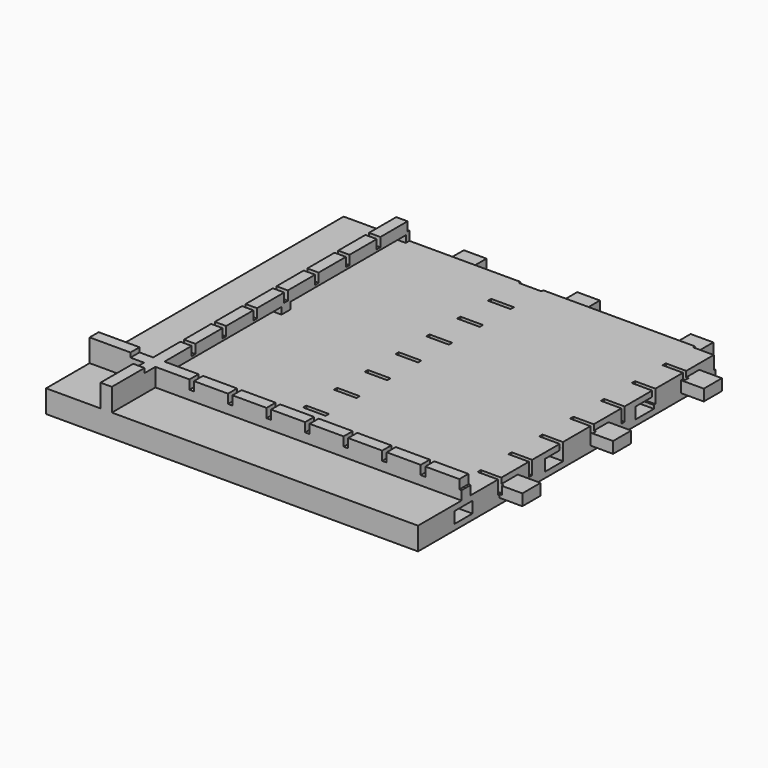
from build123d import *

# Parameters (mm, degrees)
SKETCH_W                           = 164
SKETCH_H                           = 164
PAD_DEPTH                          = 10
SKETCH001_W                        = 164
SKETCH001_H                        = 5
SKETCH001_W_2                      = 5
SKETCH001_H_2                      = 164
PAD001_DEPTH                       = 10
SKETCH005_W                        = 146
SKETCH005_H                        = 2
POCKET_DEPTH                       = 5
SKETCH006_W                        = 146
SKETCH006_H                        = 2
POCKET001_DEPTH                    = 5
SKETCH007_W                        = 2
SKETCH007_H                        = 4
POCKET002_DEPTH                    = 5
LINEARPATTERN_COUNT                = 9
LINEARPATTERN_PITCH                = 17
SKETCH008_W                        = 61.5
SKETCH008_H                        = 3
SKETCH008_W_2                      = 63.5
POCKET003_DEPTH                    = 5
SKETCH009_W                        = 2
SKETCH009_H                        = 4
POCKET004_DEPTH                    = 5
LINEARPATTERN001_COUNT             = 9
LINEARPATTERN001_PITCH             = 17
SKETCH010_W                        = 10
SKETCH010_H                        = 5
POCKET005_DEPTH                    = 10
LINEARPATTERN002_COUNT             = 3
LINEARPATTERN002_PITCH             = 50
SKETCH011_W                        = 10
SKETCH011_H                        = 5
PAD002_DEPTH                       = 10
LINEARPATTERN003_COUNT             = 3
LINEARPATTERN003_PITCH             = 50
SKETCH012_W                        = 10
SKETCH012_H                        = 5
POCKET006_DEPTH                    = 10
LINEARPATTERN004_COUNT             = 3
LINEARPATTERN004_PITCH             = 50
SKETCH013_W                        = 10
SKETCH013_H                        = 5
PAD003_DEPTH                       = 10
LINEARPATTERN005_COUNT             = 3
LINEARPATTERN005_PITCH             = 50
SKETCH014_W                        = 10
SKETCH014_H                        = 1.8
POCKET007_DEPTH                    = 6
SKETCH014_LINEARPATTERN006_2_W     = 10
SKETCH014_LINEARPATTERN006_2_H     = 1.8
POCKET007_LINEARPATTERN006_2_DEPTH = 6
SKETCH014_LINEARPATTERN006_3_W     = 10
SKETCH014_LINEARPATTERN006_3_H     = 1.8
POCKET007_LINEARPATTERN006_3_DEPTH = 6
SKETCH014_LINEARPATTERN006_4_W     = 10
SKETCH014_LINEARPATTERN006_4_H     = 1.8
POCKET007_LINEARPATTERN006_4_DEPTH = 6
SKETCH014_LINEARPATTERN006_5_W     = 10
SKETCH014_LINEARPATTERN006_5_H     = 1.8
POCKET007_LINEARPATTERN006_5_DEPTH = 6
SKETCH014_LINEARPATTERN006_6_W     = 10
SKETCH014_LINEARPATTERN006_6_H     = 1.8
POCKET007_LINEARPATTERN006_6_DEPTH = 6
SKETCH014_LINEARPATTERN006_7_W     = 10
SKETCH014_LINEARPATTERN006_7_H     = 1.8
POCKET007_LINEARPATTERN006_7_DEPTH = 6
SKETCH014_LINEARPATTERN006_8_W     = 10
SKETCH014_LINEARPATTERN006_8_H     = 1.8
POCKET007_LINEARPATTERN006_8_DEPTH = 6
SKETCH014_LINEARPATTERN006_9_W     = 10
SKETCH014_LINEARPATTERN006_9_H     = 1.8
POCKET007_LINEARPATTERN006_9_DEPTH = 6
LINEARPATTERN007_COUNT             = 2
LINEARPATTERN007_PITCH             = 77


with BuildPart() as part:
    # Sketch → Pad (new body)
    with BuildSketch(Plane.XY):
        Rectangle(SKETCH_W, SKETCH_H)
    extrude(amount=PAD_DEPTH)

    # Sketch001 (on Face6 of Pad) → Pad001 (join)
    with BuildSketch(Plane.XY.offset(10)):
        with Locations((0, -55.5)):
            Rectangle(SKETCH001_W, SKETCH001_H)
        with Locations((-55.5, 0)):
            Rectangle(SKETCH001_W_2, SKETCH001_H_2)
    extrude(amount=PAD001_DEPTH)

    # Sketch005 → Pocket (cut)
    with BuildSketch(Plane(origin=(0, -53, 0), x_dir=(-1, 0, 0), z_dir=(0, 1, 0))):
        with Locations((-9, 19)):
            Rectangle(SKETCH005_W, SKETCH005_H)
    extrude(amount=-POCKET_DEPTH, mode=Mode.SUBTRACT)

    # Sketch006 (on Face15 of Pocket) → Pocket001 (cut)
    with BuildSketch(Plane.YZ.offset(-53)):
        with Locations((9, 19)):
            Rectangle(SKETCH006_W, SKETCH006_H)
    extrude(amount=-POCKET001_DEPTH, mode=Mode.SUBTRACT)

    # Sketch007 (on Face16 of Pocket001) → Pocket002 (cut)
    with BuildSketch(Plane.YZ.offset(-53)):
        with Locations((-37, 16)):
            Rectangle(SKETCH007_W, SKETCH007_H)
    pocket002 = extrude(amount=-POCKET002_DEPTH, mode=Mode.SUBTRACT)

    # LinearPattern: Pocket002 ×9
    with Locations(*[(0, i * LINEARPATTERN_PITCH, 0) for i in range(1, LINEARPATTERN_COUNT)]):
        add(pocket002, mode=Mode.SUBTRACT)

    # Sketch008 (on Face16 of LinearPattern) → Pocket003 (cut)
    with BuildSketch(Plane.YZ.offset(-53)):
        with Locations((-19.25, 11.5)):
            Rectangle(SKETCH008_W, SKETCH008_H)
        with Locations((48.25, 11.5)):
            Rectangle(SKETCH008_W_2, SKETCH008_H)
    extrude(amount=-POCKET003_DEPTH, mode=Mode.SUBTRACT)

    # Sketch009 (on Face19 of Pocket003) → Pocket004 (cut)
    with BuildSketch(Plane(origin=(0, -53, 0), x_dir=(-1, 0, 0), z_dir=(0, 1, 0))):
        with Locations((37, 16)):
            Rectangle(SKETCH009_W, SKETCH009_H)
    pocket004 = extrude(amount=-POCKET004_DEPTH, mode=Mode.SUBTRACT)

    # LinearPattern001: Pocket004 ×9
    with Locations(*[(i * LINEARPATTERN001_PITCH, 0, 0) for i in range(1, LINEARPATTERN001_COUNT)]):
        add(pocket004, mode=Mode.SUBTRACT)

    # Sketch010 (on Face1 of LinearPattern001) → Pocket005 (cut)
    with BuildSketch(Plane(origin=(0, 82, 0), x_dir=(-1, 0, 0), z_dir=(0, 1, 0))):
        with Locations((57, 5)):
            Rectangle(SKETCH010_W, SKETCH010_H)
    pocket005 = extrude(amount=-POCKET005_DEPTH, mode=Mode.SUBTRACT)

    # LinearPattern002: Pocket005 ×3
    with Locations(*[(i * LINEARPATTERN002_PITCH, 0, 0) for i in range(1, LINEARPATTERN002_COUNT)]):
        add(pocket005, mode=Mode.SUBTRACT)

    # Sketch011 (on Face1 of LinearPattern002) → Pad002 (join)
    with BuildSketch(Plane(origin=(0, 82, 0), x_dir=(-1, 0, 0), z_dir=(0, 1, 0))):
        with Locations((32, 5)):
            Rectangle(SKETCH011_W, SKETCH011_H)
    pad002 = extrude(amount=PAD002_DEPTH)

    # LinearPattern003: Pad002 ×3
    with Locations(*[(i * LINEARPATTERN003_PITCH, 0, 0) for i in range(1, LINEARPATTERN003_COUNT)]):
        add(pad002)

    # Sketch012 (on Face5 of LinearPattern003) → Pocket006 (cut)
    with BuildSketch(Plane.YZ.offset(82)):
        with Locations((-57, 5)):
            Rectangle(SKETCH012_W, SKETCH012_H)
    pocket006 = extrude(amount=-POCKET006_DEPTH, mode=Mode.SUBTRACT)

    # LinearPattern004: Pocket006 ×3
    with Locations(*[(0, i * LINEARPATTERN004_PITCH, 0) for i in range(1, LINEARPATTERN004_COUNT)]):
        add(pocket006, mode=Mode.SUBTRACT)

    # Sketch013 (on Face5 of LinearPattern004) → Pad003 (join)
    with BuildSketch(Plane.YZ.offset(82)):
        with Locations((-32, 5)):
            Rectangle(SKETCH013_W, SKETCH013_H)
    pad003 = extrude(amount=PAD003_DEPTH)

    # LinearPattern005: Pad003 ×3
    with Locations(*[(0, i * LINEARPATTERN005_PITCH, 0) for i in range(1, LINEARPATTERN005_COUNT)]):
        add(pad003)

    # Sketch014 (on Face7 of LinearPattern005) → Pocket007 (cut)
    with BuildSketch(Plane.XY.offset(10)):
        with Locations((1, -37)):
            Rectangle(SKETCH014_W, SKETCH014_H)
    pocket007 = extrude(amount=-POCKET007_DEPTH, mode=Mode.SUBTRACT)

    # Sketch014 LinearPattern006 2 → Pocket007 LinearPattern006 2 (cut)
    with BuildSketch(Plane(origin=(0, 16.9875, 10), x_dir=(1, 0, 0), z_dir=(0, 0, 1))):
        with Locations((1, -37)):
            Rectangle(SKETCH014_LINEARPATTERN006_2_W, SKETCH014_LINEARPATTERN006_2_H)
    pocket007_linearpattern006_2 = extrude(amount=-POCKET007_LINEARPATTERN006_2_DEPTH, mode=Mode.SUBTRACT)

    # Sketch014 LinearPattern006 3 → Pocket007 LinearPattern006 3 (cut)
    with BuildSketch(Plane(origin=(0, 33.975, 10), x_dir=(1, 0, 0), z_dir=(0, 0, 1))):
        with Locations((1, -37)):
            Rectangle(SKETCH014_LINEARPATTERN006_3_W, SKETCH014_LINEARPATTERN006_3_H)
    pocket007_linearpattern006_3 = extrude(amount=-POCKET007_LINEARPATTERN006_3_DEPTH, mode=Mode.SUBTRACT)

    # Sketch014 LinearPattern006 4 → Pocket007 LinearPattern006 4 (cut)
    with BuildSketch(Plane(origin=(0, 50.9625, 10), x_dir=(1, 0, 0), z_dir=(0, 0, 1))):
        with Locations((1, -37)):
            Rectangle(SKETCH014_LINEARPATTERN006_4_W, SKETCH014_LINEARPATTERN006_4_H)
    pocket007_linearpattern006_4 = extrude(amount=-POCKET007_LINEARPATTERN006_4_DEPTH, mode=Mode.SUBTRACT)

    # Sketch014 LinearPattern006 5 → Pocket007 LinearPattern006 5 (cut)
    with BuildSketch(Plane(origin=(0, 67.95, 10), x_dir=(1, 0, 0), z_dir=(0, 0, 1))):
        with Locations((1, -37)):
            Rectangle(SKETCH014_LINEARPATTERN006_5_W, SKETCH014_LINEARPATTERN006_5_H)
    pocket007_linearpattern006_5 = extrude(amount=-POCKET007_LINEARPATTERN006_5_DEPTH, mode=Mode.SUBTRACT)

    # Sketch014 LinearPattern006 6 → Pocket007 LinearPattern006 6 (cut)
    with BuildSketch(Plane(origin=(0, 84.9375, 10), x_dir=(1, 0, 0), z_dir=(0, 0, 1))):
        with Locations((1, -37)):
            Rectangle(SKETCH014_LINEARPATTERN006_6_W, SKETCH014_LINEARPATTERN006_6_H)
    pocket007_linearpattern006_6 = extrude(amount=-POCKET007_LINEARPATTERN006_6_DEPTH, mode=Mode.SUBTRACT)

    # Sketch014 LinearPattern006 7 → Pocket007 LinearPattern006 7 (cut)
    with BuildSketch(Plane(origin=(0, 101.925, 10), x_dir=(1, 0, 0), z_dir=(0, 0, 1))):
        with Locations((1, -37)):
            Rectangle(SKETCH014_LINEARPATTERN006_7_W, SKETCH014_LINEARPATTERN006_7_H)
    pocket007_linearpattern006_7 = extrude(amount=-POCKET007_LINEARPATTERN006_7_DEPTH, mode=Mode.SUBTRACT)

    # Sketch014 LinearPattern006 8 → Pocket007 LinearPattern006 8 (cut)
    with BuildSketch(Plane(origin=(0, 118.9125, 10), x_dir=(1, 0, 0), z_dir=(0, 0, 1))):
        with Locations((1, -37)):
            Rectangle(SKETCH014_LINEARPATTERN006_8_W, SKETCH014_LINEARPATTERN006_8_H)
    pocket007_linearpattern006_8 = extrude(amount=-POCKET007_LINEARPATTERN006_8_DEPTH, mode=Mode.SUBTRACT)

    # Sketch014 LinearPattern006 9 → Pocket007 LinearPattern006 9 (cut)
    with BuildSketch(Plane(origin=(0, 135.9, 10), x_dir=(1, 0, 0), z_dir=(0, 0, 1))):
        with Locations((1, -37)):
            Rectangle(SKETCH014_LINEARPATTERN006_9_W, SKETCH014_LINEARPATTERN006_9_H)
    pocket007_linearpattern006_9 = extrude(amount=-POCKET007_LINEARPATTERN006_9_DEPTH, mode=Mode.SUBTRACT)

    # LinearPattern007: Pocket007, Pocket007 LinearPattern006 2, Pocket007 LinearPattern006 3, Pocket007 LinearPattern006 4, Pocket007 LinearPattern006 5, Pocket007 LinearPattern006 6, Pocket007 LinearPattern006 7, Pocket007 LinearPattern006 8, Pocket007 LinearPattern006 9 ×2
    with Locations(*[(i * LINEARPATTERN007_PITCH, 0, 0) for i in range(1, LINEARPATTERN007_COUNT)]):
        add(pocket007, mode=Mode.SUBTRACT)
        add(pocket007_linearpattern006_2, mode=Mode.SUBTRACT)
        add(pocket007_linearpattern006_3, mode=Mode.SUBTRACT)
        add(pocket007_linearpattern006_4, mode=Mode.SUBTRACT)
        add(pocket007_linearpattern006_5, mode=Mode.SUBTRACT)
        add(pocket007_linearpattern006_6, mode=Mode.SUBTRACT)
        add(pocket007_linearpattern006_7, mode=Mode.SUBTRACT)
        add(pocket007_linearpattern006_8, mode=Mode.SUBTRACT)
        add(pocket007_linearpattern006_9, mode=Mode.SUBTRACT)


solid = part.part
